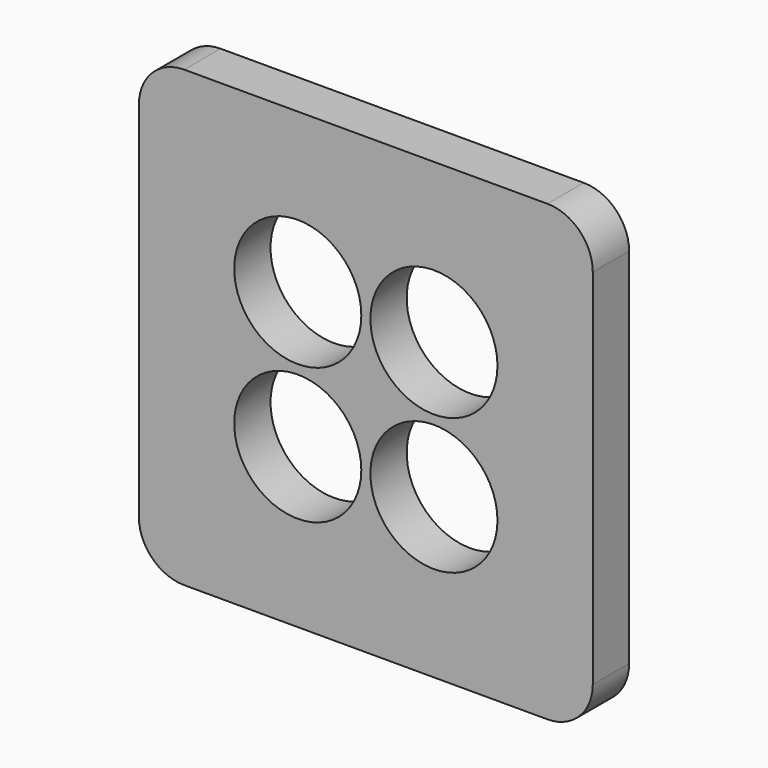
from build123d import *

# Parameters (mm, degrees)
F1_DEPTH = 5
F2_R     = 7
F3_DEPTH = 5.001


with BuildPart() as f1:
    # F0 (on Front) → F1 (new body)
    with BuildSketch(Plane.XZ):
        with BuildLine():
            Line((-5, 50), (-45, 50))
            ThreePointArc((-45, 50), (-48.535534, 48.535534), (-50, 45))
            Line((-50, 45), (-50, 5))
            ThreePointArc((-50, 5), (-48.535534, 1.464466), (-45, 0))
            Line((-45, 0), (-5, 0))
            ThreePointArc((-5, 0), (-1.464466, 1.464466), (0, 5))
            Line((0, 5), (0, 45))
            ThreePointArc((0, 45), (-1.464466, 48.535534), (-5, 50))
        make_face()
    extrude(amount=F1_DEPTH)

    # F2 (on face) → F3 (cut, through all)
    with BuildSketch(Plane.XZ.offset(5)):
        with Locations((-17.5, 32.5)):
            Circle(F2_R)
        with Locations((-32.5, 32.5)):
            Circle(F2_R)
        with Locations((-17.5, 17.5)):
            Circle(F2_R)
        with Locations((-32.5, 17.5)):
            Circle(F2_R)
    extrude(amount=-F3_DEPTH, mode=Mode.SUBTRACT)


solid = f1.part
